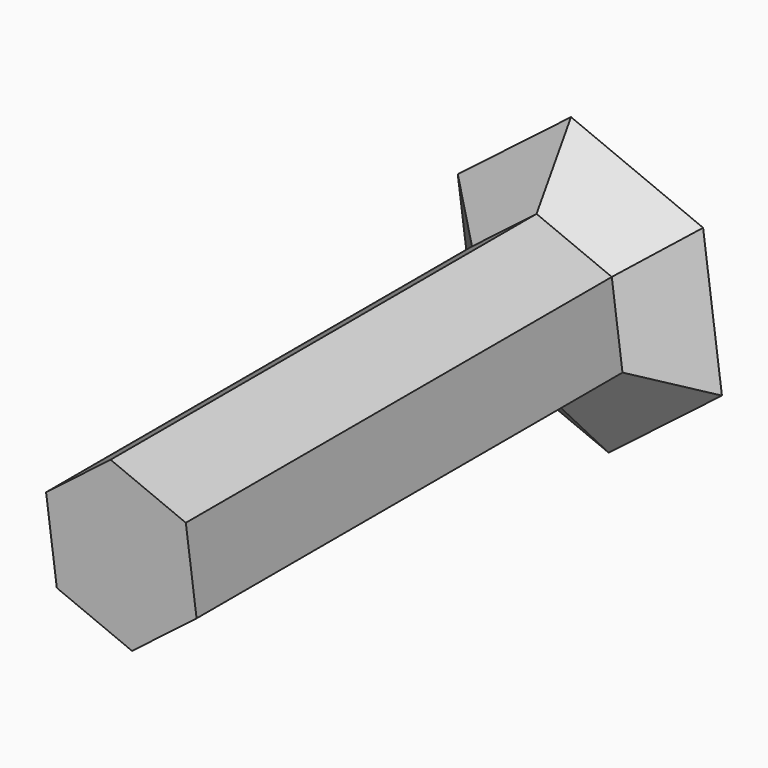
from build123d import *

# Parameters (mm, degrees)
F1_DEPTH = 150
F2_DEPTH = 15
F2_TAPER = -45


with BuildPart() as f1:
    # F0 (on Front) → F1 (new body)
    with BuildSketch(Plane.XZ):
        Polygon((18.1742158883, 13.982460057), (-3.0220576727, 22.7305626816), (-21.196273561, 8.7481026246), (-18.1742158883, -13.982460057), (3.0220576727, -22.7305626816), (21.196273561, -8.7481026246), align=None)
    extrude(amount=F1_DEPTH)

    # F1_face (on face) → F2 (join)
    with BuildSketch(Plane(origin=(0, 0, 0), x_dir=(1, 0, 0), z_dir=(0, 1, 0))):
        Polygon((-3.0220576727, -22.7305626816), (18.1742158883, -13.982460057), (21.196273561, 8.7481026246), (3.0220576727, 22.7305626816), (-18.1742158883, 13.982460057), (-21.196273561, -8.7481026246), align=None)
    extrude(amount=F2_DEPTH, taper=F2_TAPER)


solid = f1.part
